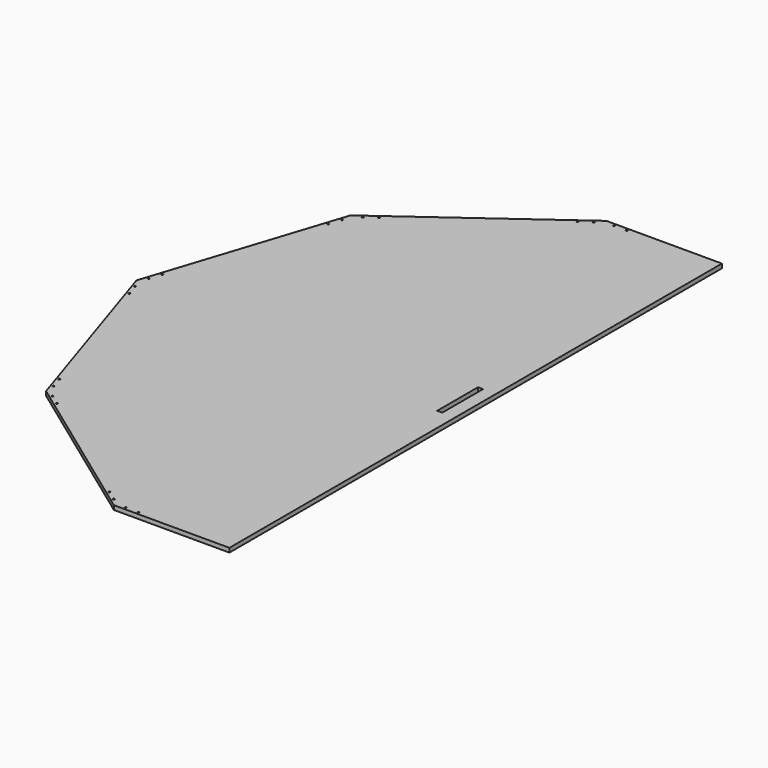
from build123d import *

# Parameters (mm, degrees)
F0_R     = 1
F0_W     = 6
F0_H     = 60
F1_DEPTH = 5


with BuildPart() as f1:
    # F0 (on Top) → F1 (new body)
    with BuildSketch(Plane.XY):
        Polygon((-117.94585, -363), (18.319213, -363), (18.319213, 363), (-117.94585, 363), (-308.786243, 224.346338), (-381.680787, 0), (-308.786243, -224.346338), align=None)
        with Locations((-297.727783, -228.672576)):
            Circle(F0_R, mode=Mode.SUBTRACT)
        with Locations((-285.592528, -237.489355)):
            Circle(F0_R, mode=Mode.SUBTRACT)
        with Locations((-309.483488, -212.492236)):
            Circle(F0_R, mode=Mode.SUBTRACT)
        with Locations((-314.118743, -198.226388)):
            Circle(F0_R, mode=Mode.SUBTRACT)
        with Locations((-370.641949, -24.265848)):
            Circle(F0_R, mode=Mode.SUBTRACT)
        with Locations((-375.277204, -10)):
            Circle(F0_R, mode=Mode.SUBTRACT)
        with Locations((-137.612854, -345.002881)):
            Circle(F0_R, mode=Mode.SUBTRACT)
        with Locations((-125.477599, -353.81966)):
            Circle(F0_R, mode=Mode.SUBTRACT)
        with Locations((-106.456468, -360)):
            Circle(F0_R, mode=Mode.SUBTRACT)
        with Locations((-91.456468, -360)):
            Circle(F0_R, mode=Mode.SUBTRACT)
        with Locations((-375.277204, 10)):
            Circle(F0_R, mode=Mode.SUBTRACT)
        with Locations((-370.641949, 24.265848)):
            Circle(F0_R, mode=Mode.SUBTRACT)
        with Locations((-314.118743, 198.226388)):
            Circle(F0_R, mode=Mode.SUBTRACT)
        with Locations((-309.483488, 212.492236)):
            Circle(F0_R, mode=Mode.SUBTRACT)
        with Locations((-297.727783, 228.672576)):
            Circle(F0_R, mode=Mode.SUBTRACT)
        with Locations((-285.592528, 237.489355)):
            Circle(F0_R, mode=Mode.SUBTRACT)
        Rectangle(F0_W, F0_H, mode=Mode.SUBTRACT)
        with Locations((-137.612854, 345.002881)):
            Circle(F0_R, mode=Mode.SUBTRACT)
        with Locations((-125.477599, 353.81966)):
            Circle(F0_R, mode=Mode.SUBTRACT)
        with Locations((-106.456468, 360)):
            Circle(F0_R, mode=Mode.SUBTRACT)
        with Locations((-91.456468, 360)):
            Circle(F0_R, mode=Mode.SUBTRACT)
    extrude(amount=F1_DEPTH)


solid = f1.part
